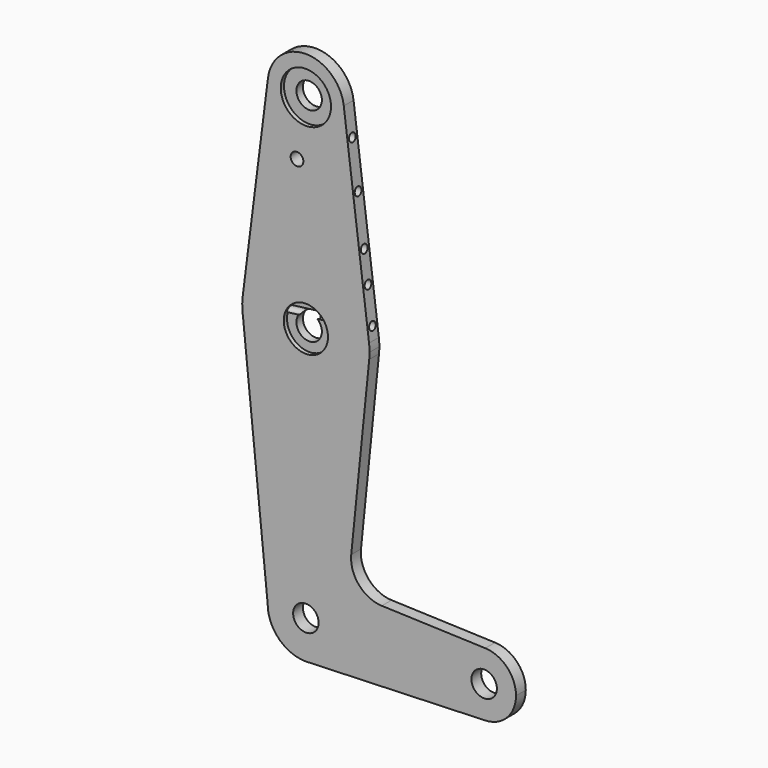
from build123d import *

# Parameters (mm, degrees)
F0_R     = 3.175
F0_R_2   = 1.5875
F1_DEPTH = 3.048
F2_R     = 6.2647039053
F2_R_2   = 3.175
F2_R_3   = 5.5140447668
F3_DEPTH = 1.01377
F4_R     = 1.0304590852
F5_DEPTH = 34.51469


with BuildPart() as f1:
    # F0 (on Front) → F1 (new body)
    with BuildSketch(Plane.XZ):
        with BuildLine():
            ThreePointArc((-9.4502929642, 115.490625), (-0.596483242, 104.7936951058), (9.525, 114.3))
            ThreePointArc((9.525, 114.3), (9.5063048942, 114.896483242), (9.4502929642, 115.490625))
            ThreePointArc((9.4502929642, 115.490625), (0, 123.825), (-9.4502929642, 115.490625))
        make_face()
        with Locations((0, 114.3)):
            Circle(F0_R, mode=Mode.SUBTRACT)
        with BuildLine():
            ThreePointArc((52.3875, 0), (50.1616327839, 5.5119104847), (44.7324052746, 7.9324746146))
            ThreePointArc((44.7324052746, 7.9324746146), (36.5125, 0), (44.7324052746, -7.9324746146))
            ThreePointArc((44.7324052746, -7.9324746146), (50.1616327839, -5.5119104847), (52.3875, 0))
        make_face()
        with Locations((44.45, 0)):
            Circle(F0_R, mode=Mode.SUBTRACT)
        with BuildLine():
            ThreePointArc((9.4502929642, 115.490625), (9.5063048942, 114.896483242), (9.525, 114.3))
            ThreePointArc((9.525, 114.3), (-0.596483242, 104.7936951058), (-9.4502929642, 115.490625))
            Line((-9.4502929642, 115.490625), (-15.7504882737, 65.484375))
            ThreePointArc((-15.7504882737, 65.484375), (0, 79.375), (15.7504882737, 65.484375))
            Line((15.7504882737, 65.484375), (9.4502929642, 115.490625))
        make_face()
        with Locations((-2.209718572, 100.0252)):
            Circle(F0_R_2, mode=Mode.SUBTRACT)
        with BuildLine():
            ThreePointArc((15.875, 63.5), (15.8438414904, 64.4941387366), (15.7504882737, 65.484375))
            ThreePointArc((15.7504882737, 65.484375), (0, 79.375), (-15.7504882737, 65.484375))
            ThreePointArc((-15.7504882737, 65.484375), (-15.8721860132, 63.2011084429), (-15.6646119555, 60.9240424533))
            ThreePointArc((-15.6646119555, 60.9240424533), (0.4924504072, 47.6326398668), (15.7942028036, 61.9003804205))
            ThreePointArc((15.7942028036, 61.9003804205), (15.8547878338, 62.6991705884), (15.875, 63.5))
        make_face()
        with Locations((0, 63.5)):
            Circle(F0_R, mode=Mode.SUBTRACT)
        with BuildLine():
            ThreePointArc((15.7942028036, 61.9003804205), (0.4924504072, 47.6326398668), (-15.6646119555, 60.9240424533))
            Line((-15.6646119555, 60.9240424533), (-9.525, 0))
            ThreePointArc((-9.525, 0), (0, 9.525), (9.525, 0))
            ThreePointArc((9.525, 0), (6.9705567315, -6.4912990883), (0.6773435479, -9.500885786))
            Line((0.6773435479, -9.500885786), (44.7324052746, -7.9324746146))
            ThreePointArc((44.7324052746, -7.9324746146), (36.5125, 0), (44.7324052746, 7.9324746146))
            Line((44.7324052746, 7.9324746146), (18.9341027877, 8.850924033))
            ThreePointArc((18.9341027877, 8.850924033), (13.2249738114, 11.5709798305), (11.3072231466, 17.5971800924))
            Line((11.3072231466, 17.5971800924), (15.7942028036, 61.9003804205))
        make_face()
        with BuildLine():
            ThreePointArc((9.525, 0), (0, 9.525), (-9.525, 0))
            ThreePointArc((-9.525, 0), (-6.7351920908, -6.7351920908), (0, -9.525))
            Line((0, -9.525), (0.6773435479, -9.500885786))
            ThreePointArc((0.6773435479, -9.500885786), (6.9705567315, -6.4912990883), (9.525, 0))
        make_face()
        Circle(F0_R, mode=Mode.SUBTRACT)
        with BuildLine():
            Line((0.6773435479, -9.500885786), (0, -9.525))
            ThreePointArc((0, -9.525), (0.3388863295, -9.5189695375), (0.6773435479, -9.500885786))
        make_face()
    extrude(amount=-F1_DEPTH)

    # F2 (on face) → F3 (cut)
    with BuildSketch(Plane.XZ):
        with Locations((0, 114.3)):
            Circle(F2_R)
        with Locations((0, 114.3)):
            Circle(F2_R_2, mode=Mode.SUBTRACT)
        with Locations((0, 63.5)):
            Circle(F2_R_3)
        with Locations((0, 63.5)):
            Circle(F2_R_2, mode=Mode.SUBTRACT)
    extrude(amount=-F3_DEPTH, mode=Mode.SUBTRACT)

    # F4 (on face) → F5 (cut)
    with BuildSketch(Plane(origin=(23.6257324105, 0, 2.9765625), x_dir=(0, 1, 0), z_dir=(0.9921567416, 0, 0.125))):
        with Locations((1.524, 66.0321041942)):
            Circle(F4_R)
        with Locations((1.524, 74.8308971524)):
            Circle(F4_R)
        with Locations((1.524, 82.4269801378)):
            Circle(F4_R)
        with Locations((1.524, 94.6481488792)):
            Circle(F4_R)
        with Locations((1.524, 106.101423502)):
            Circle(F4_R)
    extrude(amount=-F5_DEPTH, mode=Mode.SUBTRACT)


solid = f1.part
